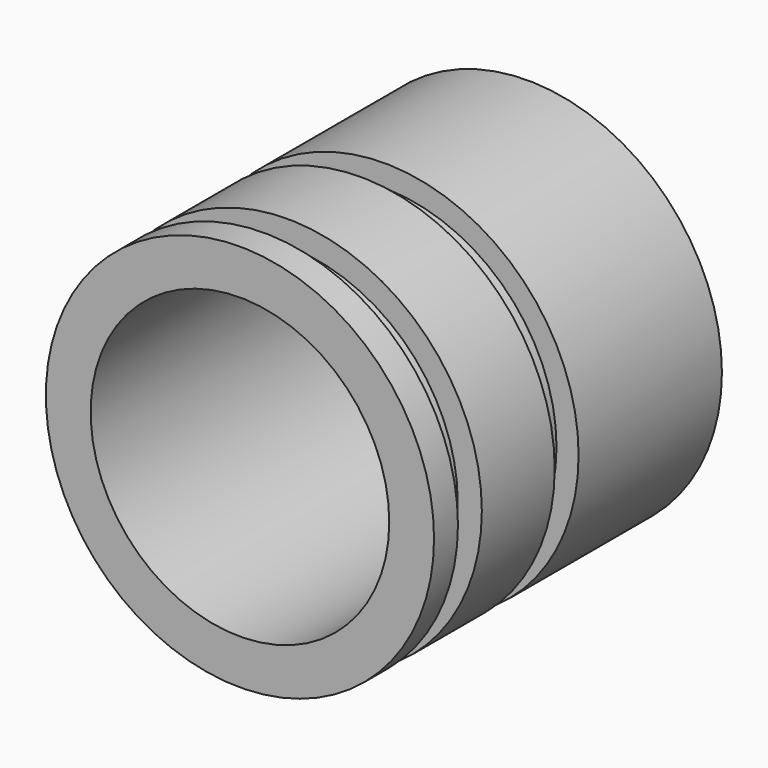
from build123d import *

# Parameters (mm, degrees)
F0_R     = 6.5
F0_R_2   = 5
F1_DEPTH = 6
F2_R     = 5.761046585
F2_R_2   = 5
F3_DEPTH = 1
F4_R     = 6.5
F4_R_2   = 5
F5_DEPTH = 3.05
F6_R     = 5.693586081
F6_R_2   = 5
F7_DEPTH = 1
F8_R     = 6.5
F8_R_2   = 5
F9_DEPTH = 1


with BuildPart() as f1:
    # F0 (on Front) → F1 (new body)
    with BuildSketch(Plane.XZ):
        Circle(F0_R)
        Circle(F0_R_2, mode=Mode.SUBTRACT)
    extrude(amount=F1_DEPTH)

    # F2 (on face) → F3 (join)
    with BuildSketch(Plane.XZ.offset(6)):
        Circle(F2_R)
        Circle(F2_R_2, mode=Mode.SUBTRACT)
    extrude(amount=F3_DEPTH)

    # F4 (on face) → F5 (join)
    with BuildSketch(Plane.XZ.offset(7)):
        Circle(F4_R)
        Circle(F4_R_2, mode=Mode.SUBTRACT)
    extrude(amount=F5_DEPTH)

    # F6 (on face) → F7 (join)
    with BuildSketch(Plane.XZ.offset(10.05)):
        Circle(F6_R)
        Circle(F6_R_2, mode=Mode.SUBTRACT)
    extrude(amount=F7_DEPTH)

    # F8 (on face) → F9 (join)
    with BuildSketch(Plane.XZ.offset(11.05)):
        Circle(F8_R)
        Circle(F8_R_2, mode=Mode.SUBTRACT)
    extrude(amount=F9_DEPTH)


solid = f1.part
